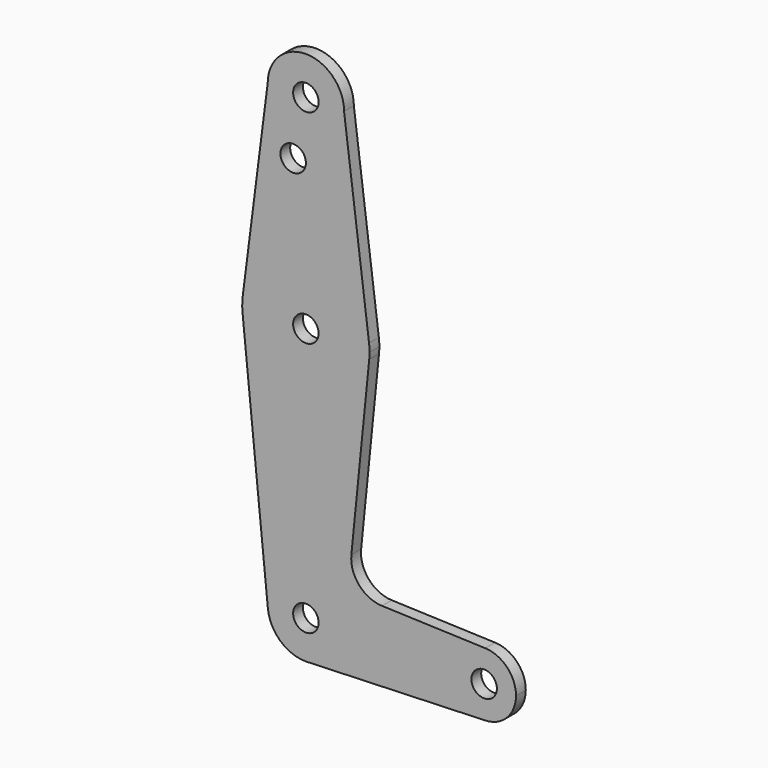
from build123d import *

# Parameters (mm, degrees)
F0_R     = 3.175
F1_DEPTH = 3.048


with BuildPart() as f1:
    # F0 (on Front) → F1 (new body)
    with BuildSketch(Plane.XZ):
        with BuildLine():
            ThreePointArc((-9.525, 0), (0, -9.525), (9.525, 0))
            ThreePointArc((9.525, 0), (0, 9.525), (-9.525, 0))
        make_face()
        Circle(F0_R, mode=Mode.SUBTRACT)
        with BuildLine():
            Line((15.747457, -48.791711), (9.525, 0))
            ThreePointArc((9.525, 0), (0, -9.525), (-9.525, 0))
            Line((-9.525, 0), (-15.747457, -48.791711))
            ThreePointArc((-15.747457, -48.791711), (0, -34.925), (15.747457, -48.791711))
        make_face()
        with Locations((-3.175, -14.413057)):
            Circle(F0_R, mode=Mode.SUBTRACT)
        with BuildLine():
            ThreePointArc((15.875, -50.8), (15.843082, -49.793832), (15.747457, -48.791711))
            ThreePointArc((15.747457, -48.791711), (0, -34.925), (-15.747457, -48.791711))
            ThreePointArc((-15.747457, -48.791711), (-15.873588, -50.588243), (-15.795426, -52.3875))
            ThreePointArc((-15.795426, -52.3875), (0, -66.675), (15.795426, -52.3875))
            ThreePointArc((15.795426, -52.3875), (15.855094, -51.594747), (15.875, -50.8))
        make_face()
        with Locations((0, -50.8)):
            Circle(F0_R, mode=Mode.SUBTRACT)
        with BuildLine():
            ThreePointArc((15.795426, -52.3875), (0, -66.675), (-15.795426, -52.3875))
            Line((-15.795426, -52.3875), (-9.477255, -115.2525))
            ThreePointArc((-9.477255, -115.2525), (-0.476848, -104.786944), (9.525, -114.3))
            ThreePointArc((9.525, -114.3), (6.970557, -120.791299), (0.677344, -123.800886))
            Line((0.677344, -123.800886), (44.732405, -122.232475))
            ThreePointArc((44.732405, -122.232475), (36.5125, -114.299461), (44.733482, -106.367564))
            Line((44.733482, -106.367564), (18.9676, -105.446766))
            ThreePointArc((18.9676, -105.446766), (13.2612, -102.728641), (11.341187, -96.706618))
            Line((11.341187, -96.706618), (15.795426, -52.3875))
        make_face()
        with BuildLine():
            ThreePointArc((9.525, -114.3), (-0.476848, -104.786944), (-9.477255, -115.2525))
            ThreePointArc((-9.477255, -115.2525), (-6.389564, -121.363929), (0, -123.825))
            Line((0, -123.825), (0.677344, -123.800886))
            ThreePointArc((0.677344, -123.800886), (6.970557, -120.791299), (9.525, -114.3))
        make_face()
        with Locations((0, -114.3)):
            Circle(F0_R, mode=Mode.SUBTRACT)
        with BuildLine():
            Line((0.677344, -123.800886), (0, -123.825))
            ThreePointArc((0, -123.825), (0.338886, -123.81897), (0.677344, -123.800886))
        make_face()
        with BuildLine():
            ThreePointArc((52.3875, -114.3), (50.162007, -108.788477), (44.733482, -106.367564))
            ThreePointArc((44.733482, -106.367564), (36.5125, -114.299461), (44.732405, -122.232475))
            ThreePointArc((44.732405, -122.232475), (50.161633, -119.81191), (52.3875, -114.3))
        make_face()
        with Locations((44.45, -114.3)):
            Circle(F0_R, mode=Mode.SUBTRACT)
    extrude(amount=F1_DEPTH)


solid = f1.part
